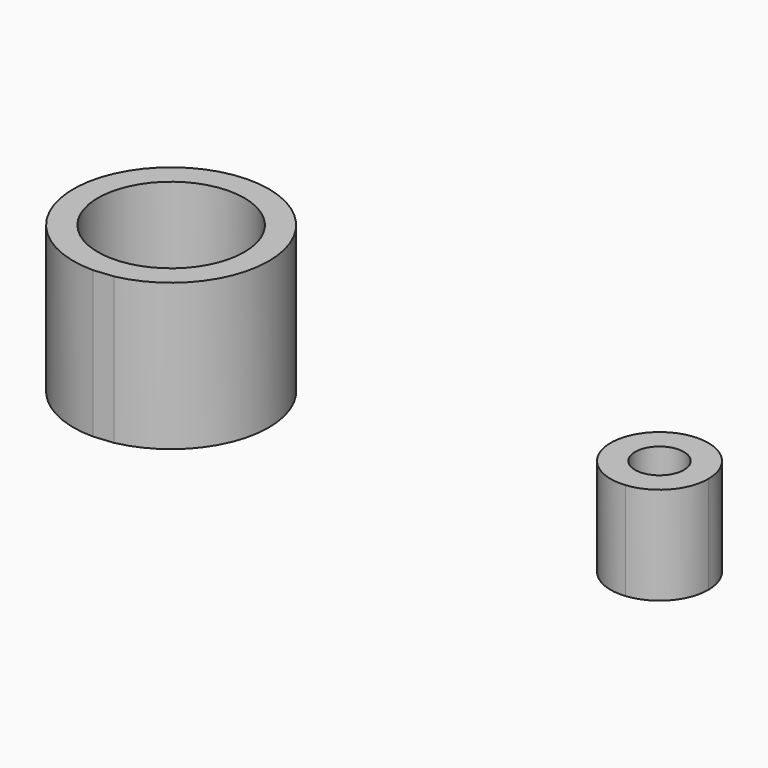
from build123d import *

# Parameters (mm, degrees)
F0_R     = 19.05
F1_DEPTH = 38.1
F0_R_2   = 6.35
F2_DEPTH = 25.4


with BuildPart() as f1:
    # F0 (on Top) → F1 (new body)
    with BuildSketch(Plane.XY):
        with BuildLine():
            Line((0, -25.4), (5.029703, -24.89703))
            ThreePointArc((5.029703, -24.89703), (25.368781, 1.258941), (2.54, 25.272681))
            ThreePointArc((2.54, 25.272681), (-25.36815, 1.271594), (0, -25.4))
        make_face()
        Circle(F0_R, mode=Mode.SUBTRACT)
    extrude(amount=F1_DEPTH)


with BuildPart() as f2:
    # F0 (on Top) → F2 (new body)
    with BuildSketch(Plane.XY):
        with BuildLine():
            ThreePointArc((139.7, 0), (136.418572, 8.519419), (128.27, 12.63634))
            ThreePointArc((128.27, 12.63634), (114.3, 0), (128.27, -12.63634))
            ThreePointArc((128.27, -12.63634), (136.418572, -8.519419), (139.7, 0))
        make_face()
        with Locations((127, 0)):
            Circle(F0_R_2, mode=Mode.SUBTRACT)
    extrude(amount=F2_DEPTH)


solid = Compound([f1.part, f2.part])
